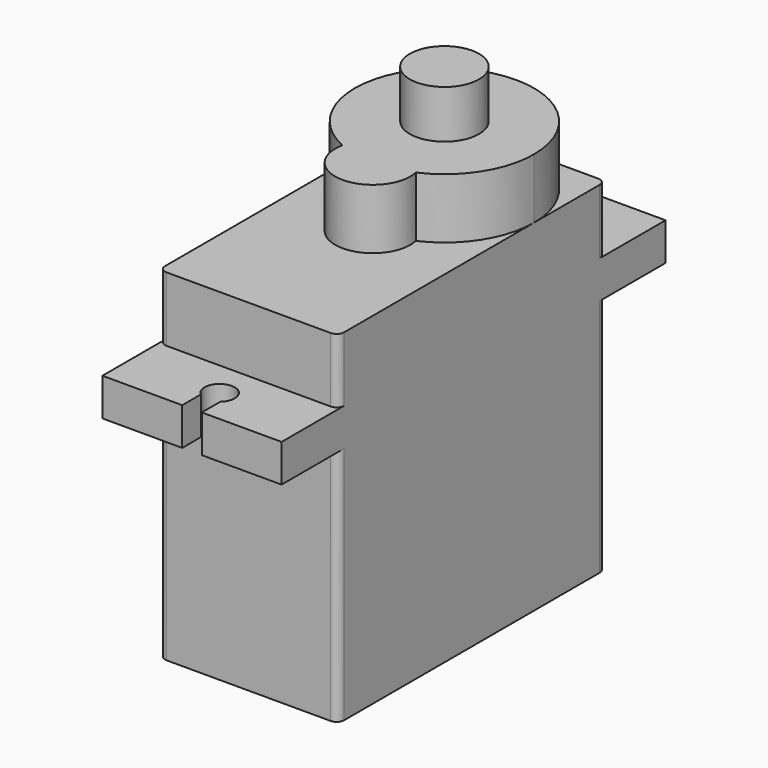
from build123d import *

# Parameters (mm, degrees)
F1_DEPTH  = 16
F2_DEPTH  = 6.7
F4_DEPTH  = 4
F5_R      = 2.3
F6_DEPTH  = 3.2
F7_W      = 0.5
F7_H      = 2.5
F7_W_2    = 10.90625
F8_DEPTH  = 1
F10_DEPTH = 4.7
F11_DEPTH = 31.9
F13_DEPTH = 2.5
F15_DEPTH = 2.5


with BuildPart() as f1:
    # F0 (on Top) → F1 (new body)
    with BuildSketch(Plane.XY):
        with BuildLine():
            Line((0, 21.725), (0, 0.5))
            ThreePointArc((0, 0.5), (0.1464466094, 0.1464466094), (0.5, 0))
            Line((0.5, 0), (11.40625, 0))
            ThreePointArc((11.40625, 0), (11.7598033906, 0.1464466094), (11.90625, 0.5))
            Line((11.90625, 0.5), (11.90625, 21.725))
            ThreePointArc((11.90625, 21.725), (11.7598033906, 22.0785533906), (11.40625, 22.225))
            Line((11.40625, 22.225), (0.5, 22.225))
            ThreePointArc((0.5, 22.225), (0.1464466094, 22.0785533906), (0, 21.725))
        make_face()
    extrude(amount=F1_DEPTH)

    # F2 (add): a face of the model
    f2_faces = [f1.faces().sort_by_distance(p)[0] for p in [
        (5.953125, 11.1125, 16),
    ]]
    extrude(f2_faces, amount=F2_DEPTH)

    # F3 (on face) → F4 (join)
    with BuildSketch(Plane.XY.offset(22.7)):
        with BuildLine():
            ThreePointArc((3.5088574424, 10.8436843832), (5.953125, 7.81875), (8.3973925576, 10.8436843832))
            ThreePointArc((8.3973925576, 10.8436843832), (10.952661357, 13.040105596), (11.90625, 16.271875))
            ThreePointArc((11.90625, 16.271875), (10.1626200568, 20.4813700568), (5.953125, 22.225))
            ThreePointArc((5.953125, 22.225), (1.7436299432, 20.4813700568), (0, 16.271875))
            ThreePointArc((0, 16.271875), (0.953588643, 13.040105596), (3.5088574424, 10.8436843832))
        make_face()
    extrude(amount=F4_DEPTH)

    # F5 (on face) → F6 (join)
    with BuildSketch(Plane.XY.offset(26.7)):
        with Locations((5.953125, 16.271875)):
            Circle(F5_R)
    extrude(amount=F6_DEPTH)

    # F7 (on face) → F8 (join)
    with BuildSketch(Plane.XZ):
        with Locations((11.65625, 17.15)):
            Rectangle(F7_W, F7_H)
        with Locations((5.953125, 17.15)):
            Rectangle(F7_W_2, F7_H)
        with Locations((0.25, 17.15)):
            Rectangle(F7_W, F7_H)
    extrude(amount=-F8_DEPTH)

    # F9 (on face) → F10 (join)
    with BuildSketch(Plane.XZ):
        Polygon((11.40625, 18.4), (0.5, 18.4), (0, 18.4), (0, 15.9), (0.5, 15.9), (11.40625, 15.9), (11.90625, 15.9), (11.90625, 18.4), align=None)
    extrude(amount=F10_DEPTH)

    # F11 (add): a face of the model
    f11_faces = [f1.faces().sort_by_distance(p)[0] for p in [
        (5.953125, -4.7, 17.15),
    ]]
    extrude(f11_faces, amount=-F11_DEPTH)

    # F12 (on face) → F13 (cut, through all)
    with BuildSketch(Plane.XY.offset(18.4)):
        with BuildLine():
            Line((6.603125, -4.7), (6.603125, -3.1599342077))
            ThreePointArc((6.603125, -3.1599342077), (5.953125, -1.4), (5.303125, -3.1599342077))
            Line((5.303125, -3.1599342077), (5.303125, -4.7))
            Line((5.303125, -4.7), (6.603125, -4.7))
        make_face()
    extrude(amount=-F13_DEPTH, mode=Mode.SUBTRACT)

    # F14 (on face) → F15 (cut, through all)
    with BuildSketch(Plane.XY.offset(18.4)):
        with BuildLine():
            Line((5.303125, 27.2), (5.303125, 25.6599342077))
            ThreePointArc((5.303125, 25.6599342077), (5.953125, 23.9), (6.603125, 25.6599342077))
            Line((6.603125, 25.6599342077), (6.603125, 27.2))
            Line((6.603125, 27.2), (5.303125, 27.2))
        make_face()
    extrude(amount=-F15_DEPTH, mode=Mode.SUBTRACT)


with BuildPart() as f16_1:
    # F16: copy of F1
    add(f1.part)


with BuildPart() as f18_1:
    # F18: copy of F1
    add(f1.part)


solid = Compound([f1.part, f18_1.part])
